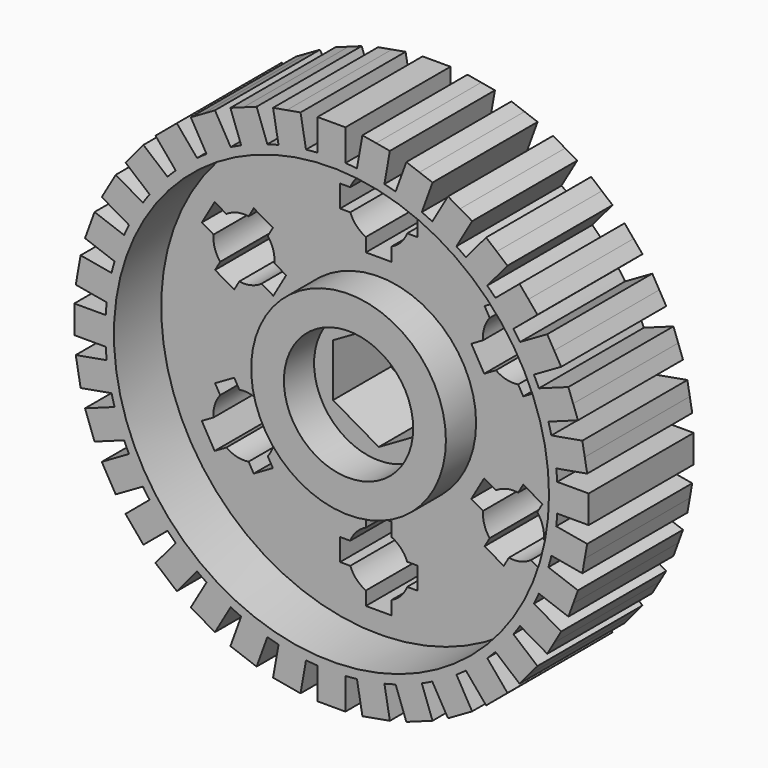
from build123d import *

# Parameters (mm, degrees)
F1_DEPTH = 23.63147
F2_R     = 39.149896
F3_DEPTH = 10.62919
F4_R     = 17.52382
F4_R_2   = 11.634611
F5_DEPTH = 6.79088
F7_DEPTH = 25.4


with BuildPart() as f1:
    # F0 (on Front) → F1 (new body)
    with BuildSketch(Plane.XZ):
        with BuildLine():
            ThreePointArc((40.626675, -2.509109), (40.684726, -1.255152), (40.704082, 0))
            ThreePointArc((40.704082, 0), (40.684726, 1.255152), (40.626675, 2.509109))
            ThreePointArc((40.626675, 2.509109), (40.549191, 3.547595), (40.445167, 4.583758))
            ThreePointArc((40.445167, 4.583758), (40.284588, 5.828745), (40.085696, 7.06819))
            ThreePointArc((40.085696, 7.06819), (39.848679, 8.300912), (39.573762, 9.525738))
            ThreePointArc((39.573762, 9.525738), (39.317124, 10.534992), (39.034752, 11.537349))
            ThreePointArc((39.034752, 11.537349), (38.660424, 12.735539), (38.249326, 13.921616))
            ThreePointArc((38.249326, 13.921616), (37.80185, 15.094452), (37.31842, 16.252933))
            ThreePointArc((37.31842, 16.252933), (36.890427, 17.202289), (36.438287, 18.140385))
            ThreePointArc((36.438287, 18.140385), (35.861582, 19.25537), (35.250769, 20.352041))
            ThreePointArc((35.250769, 20.352041), (34.60643, 21.429356), (33.929178, 22.48629))
            ThreePointArc((33.929178, 22.48629), (33.342832, 23.346903), (32.734663, 24.192234))
            ThreePointArc((32.734663, 24.192234), (31.973104, 25.190136), (31.181136, 26.16408))
            ThreePointArc((31.181136, 26.16408), (30.359512, 27.11314), (29.509014, 28.036412))
            ThreePointArc((29.509014, 28.036412), (28.782133, 28.782133), (28.036412, 29.509014))
            ThreePointArc((28.036412, 29.509014), (27.11314, 30.359512), (26.16408, 31.181136))
            ThreePointArc((26.16408, 31.181136), (25.190136, 31.973104), (24.192234, 32.734663))
            ThreePointArc((24.192234, 32.734663), (23.346903, 33.342832), (22.48629, 33.929178))
            ThreePointArc((22.48629, 33.929178), (21.429356, 34.60643), (20.352041, 35.250769))
            ThreePointArc((20.352041, 35.250769), (19.25537, 35.861582), (18.140385, 36.438287))
            ThreePointArc((18.140385, 36.438287), (17.202289, 36.890427), (16.252933, 37.31842))
            ThreePointArc((16.252933, 37.31842), (15.094452, 37.80185), (13.921616, 38.249326))
            ThreePointArc((13.921616, 38.249326), (12.735539, 38.660424), (11.537349, 39.034752))
            ThreePointArc((11.537349, 39.034752), (10.534992, 39.317124), (9.525738, 39.573762))
            ThreePointArc((9.525738, 39.573762), (8.300912, 39.848679), (7.06819, 40.085696))
            ThreePointArc((7.06819, 40.085696), (5.828745, 40.284588), (4.583758, 40.445167))
            ThreePointArc((4.583758, 40.445167), (3.547595, 40.549191), (2.509109, 40.626675))
            Line((2.509109, 40.626675), (0, 40.704082))
            Line((0, 40.704082), (-2.509109, 40.626675))
            ThreePointArc((-2.509109, 40.626675), (-3.547595, 40.549191), (-4.583758, 40.445167))
            ThreePointArc((-4.583758, 40.445167), (-5.828745, 40.284588), (-7.06819, 40.085696))
            ThreePointArc((-7.06819, 40.085696), (-8.300912, 39.848679), (-9.525738, 39.573762))
            ThreePointArc((-9.525738, 39.573762), (-10.534992, 39.317124), (-11.537349, 39.034752))
            ThreePointArc((-11.537349, 39.034752), (-12.735539, 38.660424), (-13.921616, 38.249326))
            ThreePointArc((-13.921616, 38.249326), (-15.094452, 37.80185), (-16.252933, 37.31842))
            ThreePointArc((-16.252933, 37.31842), (-17.202289, 36.890427), (-18.140385, 36.438287))
            ThreePointArc((-18.140385, 36.438287), (-19.25537, 35.861582), (-20.352041, 35.250769))
            ThreePointArc((-20.352041, 35.250769), (-21.429356, 34.60643), (-22.48629, 33.929178))
            ThreePointArc((-22.48629, 33.929178), (-23.346903, 33.342832), (-24.192234, 32.734663))
            ThreePointArc((-24.192234, 32.734663), (-25.190136, 31.973104), (-26.16408, 31.181136))
            ThreePointArc((-26.16408, 31.181136), (-27.11314, 30.359512), (-28.036412, 29.509014))
            ThreePointArc((-28.036412, 29.509014), (-28.782133, 28.782133), (-29.509014, 28.036412))
            ThreePointArc((-29.509014, 28.036412), (-30.359512, 27.11314), (-31.181136, 26.16408))
            ThreePointArc((-31.181136, 26.16408), (-31.973104, 25.190136), (-32.734663, 24.192234))
            ThreePointArc((-32.734663, 24.192234), (-33.342832, 23.346903), (-33.929178, 22.48629))
            ThreePointArc((-33.929178, 22.48629), (-34.60643, 21.429356), (-35.250769, 20.352041))
            ThreePointArc((-35.250769, 20.352041), (-35.861582, 19.25537), (-36.438287, 18.140385))
            ThreePointArc((-36.438287, 18.140385), (-36.890427, 17.202289), (-37.31842, 16.252933))
            ThreePointArc((-37.31842, 16.252933), (-37.80185, 15.094452), (-38.249326, 13.921616))
            ThreePointArc((-38.249326, 13.921616), (-38.660424, 12.735539), (-39.034752, 11.537349))
            ThreePointArc((-39.034752, 11.537349), (-39.317124, 10.534992), (-39.573762, 9.525738))
            ThreePointArc((-39.573762, 9.525738), (-39.848679, 8.300912), (-40.085696, 7.06819))
            ThreePointArc((-40.085696, 7.06819), (-40.284588, 5.828745), (-40.445167, 4.583758))
            ThreePointArc((-40.445167, 4.583758), (-40.549191, 3.547595), (-40.626675, 2.509109))
            ThreePointArc((-40.626675, 2.509109), (-40.684726, 1.255152), (-40.704082, 0))
            ThreePointArc((-40.704082, 0), (-40.684726, -1.255152), (-40.626675, -2.509109))
            ThreePointArc((-40.626675, -2.509109), (-40.549191, -3.547595), (-40.445167, -4.583758))
            ThreePointArc((-40.445167, -4.583758), (-40.284588, -5.828745), (-40.085696, -7.06819))
            ThreePointArc((-40.085696, -7.06819), (-39.848679, -8.300912), (-39.573762, -9.525738))
            ThreePointArc((-39.573762, -9.525738), (-39.317124, -10.534992), (-39.034752, -11.537349))
            ThreePointArc((-39.034752, -11.537349), (-38.660424, -12.735539), (-38.249326, -13.921616))
            ThreePointArc((-38.249326, -13.921616), (-37.80185, -15.094452), (-37.31842, -16.252933))
            ThreePointArc((-37.31842, -16.252933), (-36.890427, -17.202289), (-36.438287, -18.140385))
            ThreePointArc((-36.438287, -18.140385), (-35.861582, -19.25537), (-35.250769, -20.352041))
            ThreePointArc((-35.250769, -20.352041), (-34.60643, -21.429356), (-33.929178, -22.48629))
            ThreePointArc((-33.929178, -22.48629), (-33.342832, -23.346903), (-32.734663, -24.192234))
            ThreePointArc((-32.734663, -24.192234), (-31.973104, -25.190136), (-31.181136, -26.16408))
            ThreePointArc((-31.181136, -26.16408), (-30.359512, -27.11314), (-29.509014, -28.036412))
            ThreePointArc((-29.509014, -28.036412), (-28.782133, -28.782133), (-28.036412, -29.509014))
            ThreePointArc((-28.036412, -29.509014), (-27.11314, -30.359512), (-26.16408, -31.181136))
            ThreePointArc((-26.16408, -31.181136), (-25.190136, -31.973104), (-24.192234, -32.734663))
            ThreePointArc((-24.192234, -32.734663), (-23.346903, -33.342832), (-22.48629, -33.929178))
            ThreePointArc((-22.48629, -33.929178), (-21.429356, -34.60643), (-20.352041, -35.250769))
            ThreePointArc((-20.352041, -35.250769), (-19.25537, -35.861582), (-18.140385, -36.438287))
            ThreePointArc((-18.140385, -36.438287), (-17.202289, -36.890427), (-16.252933, -37.31842))
            ThreePointArc((-16.252933, -37.31842), (-15.094452, -37.80185), (-13.921616, -38.249326))
            ThreePointArc((-13.921616, -38.249326), (-12.735539, -38.660424), (-11.537349, -39.034752))
            ThreePointArc((-11.537349, -39.034752), (-10.534992, -39.317124), (-9.525738, -39.573762))
            ThreePointArc((-9.525738, -39.573762), (-8.300912, -39.848679), (-7.06819, -40.085696))
            ThreePointArc((-7.06819, -40.085696), (-5.828745, -40.284588), (-4.583758, -40.445167))
            ThreePointArc((-4.583758, -40.445167), (-3.547595, -40.549191), (-2.509109, -40.626675))
            ThreePointArc((-2.509109, -40.626675), (-1.255152, -40.684726), (0, -40.704082))
            ThreePointArc((0, -40.704082), (1.255152, -40.684726), (2.509109, -40.626675))
            ThreePointArc((2.509109, -40.626675), (3.547595, -40.549191), (4.583758, -40.445167))
            ThreePointArc((4.583758, -40.445167), (5.828745, -40.284588), (7.06819, -40.085696))
            ThreePointArc((7.06819, -40.085696), (8.300912, -39.848679), (9.525738, -39.573762))
            ThreePointArc((9.525738, -39.573762), (10.534992, -39.317124), (11.537349, -39.034752))
            ThreePointArc((11.537349, -39.034752), (12.735539, -38.660424), (13.921616, -38.249326))
            ThreePointArc((13.921616, -38.249326), (15.094452, -37.80185), (16.252933, -37.31842))
            ThreePointArc((16.252933, -37.31842), (17.202289, -36.890427), (18.140385, -36.438287))
            ThreePointArc((18.140385, -36.438287), (19.25537, -35.861582), (20.352041, -35.250769))
            ThreePointArc((20.352041, -35.250769), (21.429356, -34.60643), (22.48629, -33.929178))
            ThreePointArc((22.48629, -33.929178), (23.346903, -33.342832), (24.192234, -32.734663))
            ThreePointArc((24.192234, -32.734663), (25.190136, -31.973104), (26.16408, -31.181136))
            ThreePointArc((26.16408, -31.181136), (27.11314, -30.359512), (28.036412, -29.509014))
            ThreePointArc((28.036412, -29.509014), (28.782133, -28.782133), (29.509014, -28.036412))
            ThreePointArc((29.509014, -28.036412), (30.359512, -27.11314), (31.181136, -26.16408))
            ThreePointArc((31.181136, -26.16408), (31.973104, -25.190136), (32.734663, -24.192234))
            ThreePointArc((32.734663, -24.192234), (33.342832, -23.346903), (33.929178, -22.48629))
            ThreePointArc((33.929178, -22.48629), (34.60643, -21.429356), (35.250769, -20.352041))
            ThreePointArc((35.250769, -20.352041), (35.861582, -19.25537), (36.438287, -18.140385))
            ThreePointArc((36.438287, -18.140385), (36.890427, -17.202289), (37.31842, -16.252933))
            ThreePointArc((37.31842, -16.252933), (37.80185, -15.094452), (38.249326, -13.921616))
            ThreePointArc((38.249326, -13.921616), (38.660424, -12.735539), (39.034752, -11.537349))
            ThreePointArc((39.034752, -11.537349), (39.317124, -10.534992), (39.573762, -9.525738))
            ThreePointArc((39.573762, -9.525738), (39.848679, -8.300912), (40.085696, -7.06819))
            ThreePointArc((40.085696, -7.06819), (40.284588, -5.828745), (40.445167, -4.583758))
            ThreePointArc((40.445167, -4.583758), (40.549191, -3.547595), (40.626675, -2.509109))
        make_face()
        with BuildLine():
            Line((-19.970818, -17.443638), (-19.052002, -19.035074))
            Line((-19.052002, -19.035074), (-22.493635, -21.022102))
            Line((-22.493635, -21.022102), (-23.412451, -19.430665))
            ThreePointArc((-23.412451, -19.430665), (-25.502003, -19.351184), (-27.41046, -18.496583))
            Line((-27.41046, -18.496583), (-29.5299, -19.720243))
            Line((-29.5299, -19.720243), (-31.843182, -15.713522))
            Line((-31.843182, -15.713522), (-29.723741, -14.489863))
            ThreePointArc((-29.723741, -14.489863), (-29.509618, -12.409791), (-28.533675, -10.560445))
            Line((-28.533675, -10.560445), (-29.452492, -8.969008))
            Line((-29.452492, -8.969008), (-26.010859, -6.981981))
            Line((-26.010859, -6.981981), (-25.092043, -8.573417))
            ThreePointArc((-25.092043, -8.573417), (-23.00249, -8.652899), (-21.094034, -9.507499))
            Line((-21.094034, -9.507499), (-18.974593, -8.283839))
            Line((-18.974593, -8.283839), (-16.661312, -12.29056))
            Line((-16.661312, -12.29056), (-18.780753, -13.51422))
            ThreePointArc((-18.780753, -13.51422), (-18.994875, -15.594291), (-19.970818, -17.443638))
        make_face(mode=Mode.SUBTRACT)
        with BuildLine():
            Line((5.121224, -26.017055), (6.958857, -26.017055))
            Line((6.958857, -26.017055), (6.958857, -29.99111))
            Line((6.958857, -29.99111), (5.121224, -29.99111))
            ThreePointArc((5.121224, -29.99111), (4.007615, -31.760975), (2.313281, -32.986446))
            Line((2.313281, -32.986446), (2.313281, -35.433766))
            Line((2.313281, -35.433766), (-2.313281, -35.433766))
            Line((-2.313281, -35.433766), (-2.313281, -32.986446))
            ThreePointArc((-2.313281, -32.986446), (-4.007615, -31.760975), (-5.121224, -29.99111))
            Line((-5.121224, -29.99111), (-6.958857, -29.99111))
            Line((-6.958857, -29.99111), (-6.958857, -26.017055))
            Line((-6.958857, -26.017055), (-5.121224, -26.017055))
            ThreePointArc((-5.121224, -26.017055), (-4.007615, -24.24719), (-2.313281, -23.021719))
            Line((-2.313281, -23.021719), (-2.313281, -20.574399))
            Line((-2.313281, -20.574399), (2.313281, -20.574399))
            Line((2.313281, -20.574399), (2.313281, -23.021719))
            ThreePointArc((2.313281, -23.021719), (4.007615, -24.24719), (5.121224, -26.017055))
        make_face(mode=Mode.SUBTRACT)
        with BuildLine():
            Line((25.092043, -8.573417), (26.010859, -6.981981))
            Line((26.010859, -6.981981), (29.452492, -8.969008))
            Line((29.452492, -8.969008), (28.533675, -10.560445))
            ThreePointArc((28.533675, -10.560445), (29.509618, -12.409791), (29.723741, -14.489863))
            Line((29.723741, -14.489863), (31.843182, -15.713522))
            Line((31.843182, -15.713522), (29.5299, -19.720243))
            Line((29.5299, -19.720243), (27.41046, -18.496583))
            ThreePointArc((27.41046, -18.496583), (25.502003, -19.351184), (23.412451, -19.430665))
            Line((23.412451, -19.430665), (22.493635, -21.022102))
            Line((22.493635, -21.022102), (19.052002, -19.035074))
            Line((19.052002, -19.035074), (19.970818, -17.443638))
            ThreePointArc((19.970818, -17.443638), (18.994875, -15.594291), (18.780753, -13.51422))
            Line((18.780753, -13.51422), (16.661312, -12.29056))
            Line((16.661312, -12.29056), (18.974593, -8.283839))
            Line((18.974593, -8.283839), (21.094034, -9.507499))
            ThreePointArc((21.094034, -9.507499), (23.00249, -8.652899), (25.092043, -8.573417))
        make_face(mode=Mode.SUBTRACT)
        with BuildLine():
            Line((-25.092043, 8.573417), (-26.010859, 6.981981))
            Line((-26.010859, 6.981981), (-29.452492, 8.969008))
            Line((-29.452492, 8.969008), (-28.533675, 10.560445))
            ThreePointArc((-28.533675, 10.560445), (-29.509618, 12.409791), (-29.723741, 14.489863))
            Line((-29.723741, 14.489863), (-31.843182, 15.713522))
            Line((-31.843182, 15.713522), (-29.5299, 19.720243))
            Line((-29.5299, 19.720243), (-27.41046, 18.496583))
            ThreePointArc((-27.41046, 18.496583), (-25.502003, 19.351184), (-23.412451, 19.430665))
            Line((-23.412451, 19.430665), (-22.493635, 21.022102))
            Line((-22.493635, 21.022102), (-19.052002, 19.035074))
            Line((-19.052002, 19.035074), (-19.970818, 17.443638))
            ThreePointArc((-19.970818, 17.443638), (-18.994875, 15.594291), (-18.780753, 13.51422))
            Line((-18.780753, 13.51422), (-16.661312, 12.29056))
            Line((-16.661312, 12.29056), (-18.974593, 8.283839))
            Line((-18.974593, 8.283839), (-21.094034, 9.507499))
            ThreePointArc((-21.094034, 9.507499), (-23.00249, 8.652899), (-25.092043, 8.573417))
        make_face(mode=Mode.SUBTRACT)
        with BuildLine():
            Line((19.970818, 17.443638), (19.052002, 19.035074))
            Line((19.052002, 19.035074), (22.493635, 21.022102))
            Line((22.493635, 21.022102), (23.412451, 19.430665))
            ThreePointArc((23.412451, 19.430665), (25.502003, 19.351184), (27.41046, 18.496583))
            Line((27.41046, 18.496583), (29.5299, 19.720243))
            Line((29.5299, 19.720243), (31.843182, 15.713522))
            Line((31.843182, 15.713522), (29.723741, 14.489863))
            ThreePointArc((29.723741, 14.489863), (29.509618, 12.409791), (28.533675, 10.560445))
            Line((28.533675, 10.560445), (29.452492, 8.969008))
            Line((29.452492, 8.969008), (26.010859, 6.981981))
            Line((26.010859, 6.981981), (25.092043, 8.573417))
            ThreePointArc((25.092043, 8.573417), (23.00249, 8.652899), (21.094034, 9.507499))
            Line((21.094034, 9.507499), (18.974593, 8.283839))
            Line((18.974593, 8.283839), (16.661312, 12.29056))
            Line((16.661312, 12.29056), (18.780753, 13.51422))
            ThreePointArc((18.780753, 13.51422), (18.994875, 15.594291), (19.970818, 17.443638))
        make_face(mode=Mode.SUBTRACT)
        with BuildLine():
            ThreePointArc((-5.121224, 29.99111), (-4.007615, 31.760975), (-2.313281, 32.986446))
            Line((-2.313281, 32.986446), (-2.313281, 35.433766))
            Line((-2.313281, 35.433766), (2.313281, 35.433766))
            Line((2.313281, 35.433766), (2.313281, 32.986446))
            ThreePointArc((2.313281, 32.986446), (4.007615, 31.760975), (5.121224, 29.99111))
            Line((5.121224, 29.99111), (6.958857, 29.99111))
            Line((6.958857, 29.99111), (6.958857, 26.017055))
            Line((6.958857, 26.017055), (5.121224, 26.017055))
            ThreePointArc((5.121224, 26.017055), (4.007615, 24.24719), (2.313281, 23.021719))
            Line((2.313281, 23.021719), (2.313281, 20.574399))
            Line((2.313281, 20.574399), (-2.313281, 20.574399))
            Line((-2.313281, 20.574399), (-2.313281, 23.021719))
            ThreePointArc((-2.313281, 23.021719), (-4.007615, 24.24719), (-5.121224, 26.017055))
            Line((-5.121224, 26.017055), (-6.958857, 26.017055))
            Line((-6.958857, 26.017055), (-6.958857, 29.99111))
            Line((-6.958857, 29.99111), (-5.121224, 29.99111))
        make_face(mode=Mode.SUBTRACT)
        with BuildLine():
            ThreePointArc((40.626675, 2.509109), (40.684726, 1.255152), (40.704082, 0))
            Line((40.704082, 0), (46.285059, 0))
            Line((46.285059, 0), (46.285059, 2.509109))
            Line((46.285059, 2.509109), (40.626675, 2.509109))
        make_face()
        with BuildLine():
            ThreePointArc((40.085696, 7.06819), (40.284588, 5.828745), (40.445167, 4.583758))
            Line((40.445167, 4.583758), (46.017588, 5.566326))
            Line((46.017588, 5.566326), (45.581885, 8.037316))
            Line((45.581885, 8.037316), (40.085696, 7.06819))
        make_face()
        with BuildLine():
            ThreePointArc((39.573762, 9.525738), (39.848679, 8.300912), (40.085696, 7.06819))
            Line((40.085696, 7.06819), (45.581885, 8.037316))
            Line((45.581885, 8.037316), (45.146183, 10.508307))
            Line((45.146183, 10.508307), (39.573762, 9.525738))
        make_face()
        with BuildLine():
            ThreePointArc((38.249326, 13.921616), (38.660424, 12.735539), (39.034752, 11.537349))
            Line((39.034752, 11.537349), (44.351895, 13.472631))
            Line((44.351895, 13.472631), (43.493729, 15.830423))
            Line((43.493729, 15.830423), (38.249326, 13.921616))
        make_face()
        with BuildLine():
            ThreePointArc((37.31842, 16.252933), (37.80185, 15.094452), (38.249326, 13.921616))
            Line((38.249326, 13.921616), (43.493729, 15.830423))
            Line((43.493729, 15.830423), (42.635563, 18.188214))
            Line((42.635563, 18.188214), (37.31842, 16.252933))
        make_face()
        with BuildLine():
            ThreePointArc((35.250769, 20.352041), (35.861582, 19.25537), (36.438287, 18.140385))
            Line((36.438287, 18.140385), (41.338592, 20.969577))
            Line((41.338592, 20.969577), (40.084037, 23.14253))
            Line((40.084037, 23.14253), (35.250769, 20.352041))
        make_face()
        with BuildLine():
            ThreePointArc((33.929178, 22.48629), (34.60643, 21.429356), (35.250769, 20.352041))
            Line((35.250769, 20.352041), (40.084037, 23.14253))
            Line((40.084037, 23.14253), (38.829482, 25.315482))
            Line((38.829482, 25.315482), (33.929178, 22.48629))
        make_face()
        with BuildLine():
            ThreePointArc((31.181136, 26.16408), (31.973104, 25.190136), (32.734663, 24.192234))
            Line((32.734663, 24.192234), (37.069237, 27.829373))
            Line((37.069237, 27.829373), (35.456412, 29.751463))
            Line((35.456412, 29.751463), (31.181136, 26.16408))
        make_face()
        with BuildLine():
            ThreePointArc((29.509014, 28.036412), (30.359512, 27.11314), (31.181136, 26.16408))
            Line((31.181136, 26.16408), (35.456412, 29.751463))
            Line((35.456412, 29.751463), (33.843588, 31.673552))
            Line((33.843588, 31.673552), (29.509014, 28.036412))
        make_face()
        with BuildLine():
            ThreePointArc((26.16408, 31.181136), (27.11314, 30.359512), (28.036412, 29.509014))
            Line((28.036412, 29.509014), (31.673552, 33.843588))
            Line((31.673552, 33.843588), (29.751463, 35.456412))
            Line((29.751463, 35.456412), (26.16408, 31.181136))
        make_face()
        with BuildLine():
            ThreePointArc((24.192234, 32.734663), (25.190136, 31.973104), (26.16408, 31.181136))
            Line((26.16408, 31.181136), (29.751463, 35.456412))
            Line((29.751463, 35.456412), (27.829373, 37.069237))
            Line((27.829373, 37.069237), (24.192234, 32.734663))
        make_face()
        with BuildLine():
            ThreePointArc((20.352041, 35.250769), (21.429356, 34.60643), (22.48629, 33.929178))
            Line((22.48629, 33.929178), (25.315482, 38.829482))
            Line((25.315482, 38.829482), (23.14253, 40.084037))
            Line((23.14253, 40.084037), (20.352041, 35.250769))
        make_face()
        with BuildLine():
            ThreePointArc((18.140385, 36.438287), (19.25537, 35.861582), (20.352041, 35.250769))
            Line((20.352041, 35.250769), (23.14253, 40.084037))
            Line((23.14253, 40.084037), (20.969577, 41.338592))
            Line((20.969577, 41.338592), (18.140385, 36.438287))
        make_face()
        with BuildLine():
            ThreePointArc((13.921616, 38.249326), (15.094452, 37.80185), (16.252933, 37.31842))
            Line((16.252933, 37.31842), (18.188214, 42.635563))
            Line((18.188214, 42.635563), (15.830423, 43.493729))
            Line((15.830423, 43.493729), (13.921616, 38.249326))
        make_face()
        with BuildLine():
            ThreePointArc((11.537349, 39.034752), (12.735539, 38.660424), (13.921616, 38.249326))
            Line((13.921616, 38.249326), (15.830423, 43.493729))
            Line((15.830423, 43.493729), (13.472631, 44.351895))
            Line((13.472631, 44.351895), (11.537349, 39.034752))
        make_face()
        with BuildLine():
            ThreePointArc((7.06819, 40.085696), (8.300912, 39.848679), (9.525738, 39.573762))
            Line((9.525738, 39.573762), (10.508307, 45.146183))
            Line((10.508307, 45.146183), (8.037316, 45.581885))
            Line((8.037316, 45.581885), (7.06819, 40.085696))
        make_face()
        with BuildLine():
            ThreePointArc((4.583758, 40.445167), (5.828745, 40.284588), (7.06819, 40.085696))
            Line((7.06819, 40.085696), (8.037316, 45.581885))
            Line((8.037316, 45.581885), (5.566326, 46.017588))
            Line((5.566326, 46.017588), (4.583758, 40.445167))
        make_face()
        with BuildLine():
            ThreePointArc((0, 40.704082), (1.255152, 40.684726), (2.509109, 40.626675))
            Line((2.509109, 40.626675), (2.509109, 46.285059))
            Line((2.509109, 46.285059), (0, 46.285059))
            Line((0, 46.285059), (0, 40.704082))
        make_face()
        with BuildLine():
            Line((0, 40.704082), (2.509109, 40.626675))
            ThreePointArc((2.509109, 40.626675), (1.255152, 40.684726), (0, 40.704082))
        make_face()
        with BuildLine():
            ThreePointArc((-2.509109, 40.626675), (-1.255152, 40.684726), (0, 40.704082))
            Line((0, 40.704082), (0, 46.285059))
            Line((0, 46.285059), (-2.509109, 46.285059))
            Line((-2.509109, 46.285059), (-2.509109, 40.626675))
        make_face()
        with BuildLine():
            Line((-2.509109, 40.626675), (0, 40.704082))
            ThreePointArc((0, 40.704082), (-1.255152, 40.684726), (-2.509109, 40.626675))
        make_face()
        with BuildLine():
            ThreePointArc((-7.06819, 40.085696), (-5.828745, 40.284588), (-4.583758, 40.445167))
            Line((-4.583758, 40.445167), (-5.566326, 46.017588))
            Line((-5.566326, 46.017588), (-8.037316, 45.581885))
            Line((-8.037316, 45.581885), (-7.06819, 40.085696))
        make_face()
        with BuildLine():
            ThreePointArc((-9.525738, 39.573762), (-8.300912, 39.848679), (-7.06819, 40.085696))
            Line((-7.06819, 40.085696), (-8.037316, 45.581885))
            Line((-8.037316, 45.581885), (-10.508307, 45.146183))
            Line((-10.508307, 45.146183), (-9.525738, 39.573762))
        make_face()
        with BuildLine():
            ThreePointArc((-13.921616, 38.249326), (-12.735539, 38.660424), (-11.537349, 39.034752))
            Line((-11.537349, 39.034752), (-13.472631, 44.351895))
            Line((-13.472631, 44.351895), (-15.830423, 43.493729))
            Line((-15.830423, 43.493729), (-13.921616, 38.249326))
        make_face()
        with BuildLine():
            ThreePointArc((-16.252933, 37.31842), (-15.094452, 37.80185), (-13.921616, 38.249326))
            Line((-13.921616, 38.249326), (-15.830423, 43.493729))
            Line((-15.830423, 43.493729), (-18.188214, 42.635563))
            Line((-18.188214, 42.635563), (-16.252933, 37.31842))
        make_face()
        with BuildLine():
            ThreePointArc((-20.352041, 35.250769), (-19.25537, 35.861582), (-18.140385, 36.438287))
            Line((-18.140385, 36.438287), (-20.969577, 41.338592))
            Line((-20.969577, 41.338592), (-23.14253, 40.084037))
            Line((-23.14253, 40.084037), (-20.352041, 35.250769))
        make_face()
        with BuildLine():
            ThreePointArc((-22.48629, 33.929178), (-21.429356, 34.60643), (-20.352041, 35.250769))
            Line((-20.352041, 35.250769), (-23.14253, 40.084037))
            Line((-23.14253, 40.084037), (-25.315482, 38.829482))
            Line((-25.315482, 38.829482), (-22.48629, 33.929178))
        make_face()
        with BuildLine():
            ThreePointArc((-26.16408, 31.181136), (-25.190136, 31.973104), (-24.192234, 32.734663))
            Line((-24.192234, 32.734663), (-27.829373, 37.069237))
            Line((-27.829373, 37.069237), (-29.751463, 35.456412))
            Line((-29.751463, 35.456412), (-26.16408, 31.181136))
        make_face()
        with BuildLine():
            ThreePointArc((-28.036412, 29.509014), (-27.11314, 30.359512), (-26.16408, 31.181136))
            Line((-26.16408, 31.181136), (-29.751463, 35.456412))
            Line((-29.751463, 35.456412), (-31.673552, 33.843588))
            Line((-31.673552, 33.843588), (-28.036412, 29.509014))
        make_face()
        with BuildLine():
            ThreePointArc((-31.181136, 26.16408), (-30.359512, 27.11314), (-29.509014, 28.036412))
            Line((-29.509014, 28.036412), (-33.843588, 31.673552))
            Line((-33.843588, 31.673552), (-35.456412, 29.751463))
            Line((-35.456412, 29.751463), (-31.181136, 26.16408))
        make_face()
        with BuildLine():
            ThreePointArc((-32.734663, 24.192234), (-31.973104, 25.190136), (-31.181136, 26.16408))
            Line((-31.181136, 26.16408), (-35.456412, 29.751463))
            Line((-35.456412, 29.751463), (-37.069237, 27.829373))
            Line((-37.069237, 27.829373), (-32.734663, 24.192234))
        make_face()
        with BuildLine():
            ThreePointArc((-35.250769, 20.352041), (-34.60643, 21.429356), (-33.929178, 22.48629))
            Line((-33.929178, 22.48629), (-38.829482, 25.315482))
            Line((-38.829482, 25.315482), (-40.084037, 23.14253))
            Line((-40.084037, 23.14253), (-35.250769, 20.352041))
        make_face()
        with BuildLine():
            ThreePointArc((-36.438287, 18.140385), (-35.861582, 19.25537), (-35.250769, 20.352041))
            Line((-35.250769, 20.352041), (-40.084037, 23.14253))
            Line((-40.084037, 23.14253), (-41.338592, 20.969577))
            Line((-41.338592, 20.969577), (-36.438287, 18.140385))
        make_face()
        with BuildLine():
            ThreePointArc((-38.249326, 13.921616), (-37.80185, 15.094452), (-37.31842, 16.252933))
            Line((-37.31842, 16.252933), (-42.635563, 18.188214))
            Line((-42.635563, 18.188214), (-43.493729, 15.830423))
            Line((-43.493729, 15.830423), (-38.249326, 13.921616))
        make_face()
        with BuildLine():
            ThreePointArc((-39.034752, 11.537349), (-38.660424, 12.735539), (-38.249326, 13.921616))
            Line((-38.249326, 13.921616), (-43.493729, 15.830423))
            Line((-43.493729, 15.830423), (-44.351895, 13.472631))
            Line((-44.351895, 13.472631), (-39.034752, 11.537349))
        make_face()
        with BuildLine():
            ThreePointArc((-40.085696, 7.06819), (-39.848679, 8.300912), (-39.573762, 9.525738))
            Line((-39.573762, 9.525738), (-45.146183, 10.508307))
            Line((-45.146183, 10.508307), (-45.581885, 8.037316))
            Line((-45.581885, 8.037316), (-40.085696, 7.06819))
        make_face()
        with BuildLine():
            ThreePointArc((-40.445167, 4.583758), (-40.284588, 5.828745), (-40.085696, 7.06819))
            Line((-40.085696, 7.06819), (-45.581885, 8.037316))
            Line((-45.581885, 8.037316), (-46.017588, 5.566326))
            Line((-46.017588, 5.566326), (-40.445167, 4.583758))
        make_face()
        with BuildLine():
            ThreePointArc((-40.704082, 0), (-40.684726, 1.255152), (-40.626675, 2.509109))
            Line((-40.626675, 2.509109), (-46.285059, 2.509109))
            Line((-46.285059, 2.509109), (-46.285059, 0))
            Line((-46.285059, 0), (-40.704082, 0))
        make_face()
        with BuildLine():
            Line((-46.285059, -2.509109), (-40.626675, -2.509109))
            ThreePointArc((-40.626675, -2.509109), (-40.684726, -1.255152), (-40.704082, 0))
            Line((-40.704082, 0), (-46.285059, 0))
            Line((-46.285059, 0), (-46.285059, -2.509109))
        make_face()
        with BuildLine():
            Line((-45.581885, -8.037316), (-40.085696, -7.06819))
            ThreePointArc((-40.085696, -7.06819), (-40.284588, -5.828745), (-40.445167, -4.583758))
            Line((-40.445167, -4.583758), (-46.017588, -5.566326))
            Line((-46.017588, -5.566326), (-45.581885, -8.037316))
        make_face()
        with BuildLine():
            Line((-45.146183, -10.508307), (-39.573762, -9.525738))
            ThreePointArc((-39.573762, -9.525738), (-39.848679, -8.300912), (-40.085696, -7.06819))
            Line((-40.085696, -7.06819), (-45.581885, -8.037316))
            Line((-45.581885, -8.037316), (-45.146183, -10.508307))
        make_face()
        with BuildLine():
            Line((-43.493729, -15.830423), (-38.249326, -13.921616))
            ThreePointArc((-38.249326, -13.921616), (-38.660424, -12.735539), (-39.034752, -11.537349))
            Line((-39.034752, -11.537349), (-44.351895, -13.472631))
            Line((-44.351895, -13.472631), (-43.493729, -15.830423))
        make_face()
        with BuildLine():
            Line((-42.635563, -18.188214), (-37.31842, -16.252933))
            ThreePointArc((-37.31842, -16.252933), (-37.80185, -15.094452), (-38.249326, -13.921616))
            Line((-38.249326, -13.921616), (-43.493729, -15.830423))
            Line((-43.493729, -15.830423), (-42.635563, -18.188214))
        make_face()
        with BuildLine():
            Line((-40.084037, -23.14253), (-35.250769, -20.352041))
            ThreePointArc((-35.250769, -20.352041), (-35.861582, -19.25537), (-36.438287, -18.140385))
            Line((-36.438287, -18.140385), (-41.338592, -20.969577))
            Line((-41.338592, -20.969577), (-40.084037, -23.14253))
        make_face()
        with BuildLine():
            Line((-38.829482, -25.315482), (-33.929178, -22.48629))
            ThreePointArc((-33.929178, -22.48629), (-34.60643, -21.429356), (-35.250769, -20.352041))
            Line((-35.250769, -20.352041), (-40.084037, -23.14253))
            Line((-40.084037, -23.14253), (-38.829482, -25.315482))
        make_face()
        with BuildLine():
            Line((-35.456412, -29.751463), (-31.181136, -26.16408))
            ThreePointArc((-31.181136, -26.16408), (-31.973104, -25.190136), (-32.734663, -24.192234))
            Line((-32.734663, -24.192234), (-37.069237, -27.829373))
            Line((-37.069237, -27.829373), (-35.456412, -29.751463))
        make_face()
        with BuildLine():
            Line((-33.843588, -31.673552), (-29.509014, -28.036412))
            ThreePointArc((-29.509014, -28.036412), (-30.359512, -27.11314), (-31.181136, -26.16408))
            Line((-31.181136, -26.16408), (-35.456412, -29.751463))
            Line((-35.456412, -29.751463), (-33.843588, -31.673552))
        make_face()
        with BuildLine():
            Line((-29.751463, -35.456412), (-26.16408, -31.181136))
            ThreePointArc((-26.16408, -31.181136), (-27.11314, -30.359512), (-28.036412, -29.509014))
            Line((-28.036412, -29.509014), (-31.673552, -33.843588))
            Line((-31.673552, -33.843588), (-29.751463, -35.456412))
        make_face()
        with BuildLine():
            Line((-27.829373, -37.069237), (-24.192234, -32.734663))
            ThreePointArc((-24.192234, -32.734663), (-25.190136, -31.973104), (-26.16408, -31.181136))
            Line((-26.16408, -31.181136), (-29.751463, -35.456412))
            Line((-29.751463, -35.456412), (-27.829373, -37.069237))
        make_face()
        with BuildLine():
            Line((-23.14253, -40.084037), (-20.352041, -35.250769))
            ThreePointArc((-20.352041, -35.250769), (-21.429356, -34.60643), (-22.48629, -33.929178))
            Line((-22.48629, -33.929178), (-25.315482, -38.829482))
            Line((-25.315482, -38.829482), (-23.14253, -40.084037))
        make_face()
        with BuildLine():
            Line((-20.969577, -41.338592), (-18.140385, -36.438287))
            ThreePointArc((-18.140385, -36.438287), (-19.25537, -35.861582), (-20.352041, -35.250769))
            Line((-20.352041, -35.250769), (-23.14253, -40.084037))
            Line((-23.14253, -40.084037), (-20.969577, -41.338592))
        make_face()
        with BuildLine():
            Line((-15.830423, -43.493729), (-13.921616, -38.249326))
            ThreePointArc((-13.921616, -38.249326), (-15.094452, -37.80185), (-16.252933, -37.31842))
            Line((-16.252933, -37.31842), (-18.188214, -42.635563))
            Line((-18.188214, -42.635563), (-15.830423, -43.493729))
        make_face()
        with BuildLine():
            Line((-13.472631, -44.351895), (-11.537349, -39.034752))
            ThreePointArc((-11.537349, -39.034752), (-12.735539, -38.660424), (-13.921616, -38.249326))
            Line((-13.921616, -38.249326), (-15.830423, -43.493729))
            Line((-15.830423, -43.493729), (-13.472631, -44.351895))
        make_face()
        with BuildLine():
            Line((-8.037316, -45.581885), (-7.06819, -40.085696))
            ThreePointArc((-7.06819, -40.085696), (-8.300912, -39.848679), (-9.525738, -39.573762))
            Line((-9.525738, -39.573762), (-10.508307, -45.146183))
            Line((-10.508307, -45.146183), (-8.037316, -45.581885))
        make_face()
        with BuildLine():
            Line((-5.566326, -46.017588), (-4.583758, -40.445167))
            ThreePointArc((-4.583758, -40.445167), (-5.828745, -40.284588), (-7.06819, -40.085696))
            Line((-7.06819, -40.085696), (-8.037316, -45.581885))
            Line((-8.037316, -45.581885), (-5.566326, -46.017588))
        make_face()
        with BuildLine():
            Line((0, -46.285059), (0, -40.704082))
            ThreePointArc((0, -40.704082), (-1.255152, -40.684726), (-2.509109, -40.626675))
            Line((-2.509109, -40.626675), (-2.509109, -46.285059))
            Line((-2.509109, -46.285059), (0, -46.285059))
        make_face()
        with BuildLine():
            Line((2.509109, -46.285059), (2.509109, -40.626675))
            ThreePointArc((2.509109, -40.626675), (1.255152, -40.684726), (0, -40.704082))
            Line((0, -40.704082), (0, -46.285059))
            Line((0, -46.285059), (2.509109, -46.285059))
        make_face()
        with BuildLine():
            Line((8.037316, -45.581885), (7.06819, -40.085696))
            ThreePointArc((7.06819, -40.085696), (5.828745, -40.284588), (4.583758, -40.445167))
            Line((4.583758, -40.445167), (5.566326, -46.017588))
            Line((5.566326, -46.017588), (8.037316, -45.581885))
        make_face()
        with BuildLine():
            Line((10.508307, -45.146183), (9.525738, -39.573762))
            ThreePointArc((9.525738, -39.573762), (8.300912, -39.848679), (7.06819, -40.085696))
            Line((7.06819, -40.085696), (8.037316, -45.581885))
            Line((8.037316, -45.581885), (10.508307, -45.146183))
        make_face()
        with BuildLine():
            Line((15.830423, -43.493729), (13.921616, -38.249326))
            ThreePointArc((13.921616, -38.249326), (12.735539, -38.660424), (11.537349, -39.034752))
            Line((11.537349, -39.034752), (13.472631, -44.351895))
            Line((13.472631, -44.351895), (15.830423, -43.493729))
        make_face()
        with BuildLine():
            Line((18.188214, -42.635563), (16.252933, -37.31842))
            ThreePointArc((16.252933, -37.31842), (15.094452, -37.80185), (13.921616, -38.249326))
            Line((13.921616, -38.249326), (15.830423, -43.493729))
            Line((15.830423, -43.493729), (18.188214, -42.635563))
        make_face()
        with BuildLine():
            Line((23.14253, -40.084037), (20.352041, -35.250769))
            ThreePointArc((20.352041, -35.250769), (19.25537, -35.861582), (18.140385, -36.438287))
            Line((18.140385, -36.438287), (20.969577, -41.338592))
            Line((20.969577, -41.338592), (23.14253, -40.084037))
        make_face()
        with BuildLine():
            Line((25.315482, -38.829482), (22.48629, -33.929178))
            ThreePointArc((22.48629, -33.929178), (21.429356, -34.60643), (20.352041, -35.250769))
            Line((20.352041, -35.250769), (23.14253, -40.084037))
            Line((23.14253, -40.084037), (25.315482, -38.829482))
        make_face()
        with BuildLine():
            Line((29.751463, -35.456412), (26.16408, -31.181136))
            ThreePointArc((26.16408, -31.181136), (25.190136, -31.973104), (24.192234, -32.734663))
            Line((24.192234, -32.734663), (27.829373, -37.069237))
            Line((27.829373, -37.069237), (29.751463, -35.456412))
        make_face()
        with BuildLine():
            Line((31.673552, -33.843588), (28.036412, -29.509014))
            ThreePointArc((28.036412, -29.509014), (27.11314, -30.359512), (26.16408, -31.181136))
            Line((26.16408, -31.181136), (29.751463, -35.456412))
            Line((29.751463, -35.456412), (31.673552, -33.843588))
        make_face()
        with BuildLine():
            Line((35.456412, -29.751463), (31.181136, -26.16408))
            ThreePointArc((31.181136, -26.16408), (30.359512, -27.11314), (29.509014, -28.036412))
            Line((29.509014, -28.036412), (33.843588, -31.673552))
            Line((33.843588, -31.673552), (35.456412, -29.751463))
        make_face()
        with BuildLine():
            Line((37.069237, -27.829373), (32.734663, -24.192234))
            ThreePointArc((32.734663, -24.192234), (31.973104, -25.190136), (31.181136, -26.16408))
            Line((31.181136, -26.16408), (35.456412, -29.751463))
            Line((35.456412, -29.751463), (37.069237, -27.829373))
        make_face()
        with BuildLine():
            Line((40.084037, -23.14253), (35.250769, -20.352041))
            ThreePointArc((35.250769, -20.352041), (34.60643, -21.429356), (33.929178, -22.48629))
            Line((33.929178, -22.48629), (38.829482, -25.315482))
            Line((38.829482, -25.315482), (40.084037, -23.14253))
        make_face()
        with BuildLine():
            Line((41.338592, -20.969577), (36.438287, -18.140385))
            ThreePointArc((36.438287, -18.140385), (35.861582, -19.25537), (35.250769, -20.352041))
            Line((35.250769, -20.352041), (40.084037, -23.14253))
            Line((40.084037, -23.14253), (41.338592, -20.969577))
        make_face()
        with BuildLine():
            Line((43.493729, -15.830423), (38.249326, -13.921616))
            ThreePointArc((38.249326, -13.921616), (37.80185, -15.094452), (37.31842, -16.252933))
            Line((37.31842, -16.252933), (42.635563, -18.188214))
            Line((42.635563, -18.188214), (43.493729, -15.830423))
        make_face()
        with BuildLine():
            Line((44.351895, -13.472631), (39.034752, -11.537349))
            ThreePointArc((39.034752, -11.537349), (38.660424, -12.735539), (38.249326, -13.921616))
            Line((38.249326, -13.921616), (43.493729, -15.830423))
            Line((43.493729, -15.830423), (44.351895, -13.472631))
        make_face()
        with BuildLine():
            Line((45.581885, -8.037316), (40.085696, -7.06819))
            ThreePointArc((40.085696, -7.06819), (39.848679, -8.300912), (39.573762, -9.525738))
            Line((39.573762, -9.525738), (45.146183, -10.508307))
            Line((45.146183, -10.508307), (45.581885, -8.037316))
        make_face()
        with BuildLine():
            Line((46.017588, -5.566326), (40.445167, -4.583758))
            ThreePointArc((40.445167, -4.583758), (40.284588, -5.828745), (40.085696, -7.06819))
            Line((40.085696, -7.06819), (45.581885, -8.037316))
            Line((45.581885, -8.037316), (46.017588, -5.566326))
        make_face()
        with BuildLine():
            Line((46.285059, 0), (40.704082, 0))
            ThreePointArc((40.704082, 0), (40.684726, -1.255152), (40.626675, -2.509109))
            Line((40.626675, -2.509109), (46.285059, -2.509109))
            Line((46.285059, -2.509109), (46.285059, 0))
        make_face()
    extrude(amount=F1_DEPTH)

    # F2 (on face) → F3 (cut)
    with BuildSketch(Plane.XZ.offset(23.63147)):
        Circle(F2_R)
    extrude(amount=-F3_DEPTH, mode=Mode.SUBTRACT)

    # F4 (on face) → F5 (join)
    with BuildSketch(Plane.XZ.offset(13.00228)):
        Circle(F4_R)
        Circle(F4_R_2, mode=Mode.SUBTRACT)
    extrude(amount=F5_DEPTH)

    # F6 (on face) → F7 (cut)
    with BuildSketch(Plane.XZ.offset(13.00228)):
        Polygon((-8.22499, -4.7487), (0, -9.4974), (8.22499, -4.7487), (8.22499, 4.7487), (0, 9.4974), (-8.22499, 4.7487), align=None)
    extrude(amount=-F7_DEPTH, mode=Mode.SUBTRACT)


solid = f1.part
